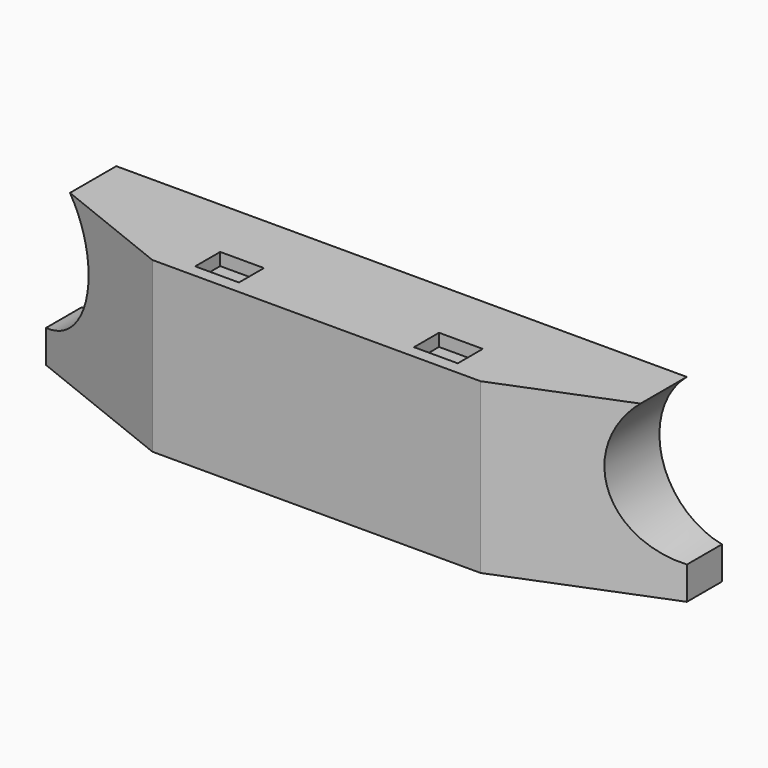
from build123d import *

# Parameters (mm, degrees)
F0_W     = 102.5
F0_H     = 27
F1_DEPTH = 17
F3_DEPTH = 190
F4_R     = 12.5
F5_DEPTH = 25
F6_W     = 7
F6_H     = 5
F7_DEPTH = 2


with BuildPart() as f1:
    # F0 (on Front) → F1 (new body)
    with BuildSketch(Plane.XZ):
        Rectangle(F0_W, F0_H)
    extrude(amount=F1_DEPTH)

    # F2 (on face) → F3 (cut)
    with BuildSketch(Plane(origin=(0, 0, -13.5), x_dir=(1, 0, 0), z_dir=(0, 0, -1))):
        Polygon((-51.25, 7), (-26.25, 17), (-51.25, 17), align=None)
        Polygon((51.25, 17), (26.25, 17), (51.25, 7), align=None)
    extrude(amount=-F3_DEPTH, mode=Mode.SUBTRACT)

    # F4 (on face) → F5 (cut)
    with BuildSketch(Plane.XZ.offset(17)):
        with Locations((-53.75, 4)):
            Circle(F4_R)
        with Locations((53.75, 4)):
            Circle(F4_R)
    extrude(amount=-F5_DEPTH, mode=Mode.SUBTRACT)

    # F6 (on face) → F7 (cut)
    with BuildSketch(Plane.XY.offset(13.5)):
        with Locations((17.5, -12.5)):
            Rectangle(F6_W, F6_H)
        with Locations((-17.5, -12.5)):
            Rectangle(F6_W, F6_H)
    extrude(amount=-F7_DEPTH, mode=Mode.SUBTRACT)


solid = f1.part
